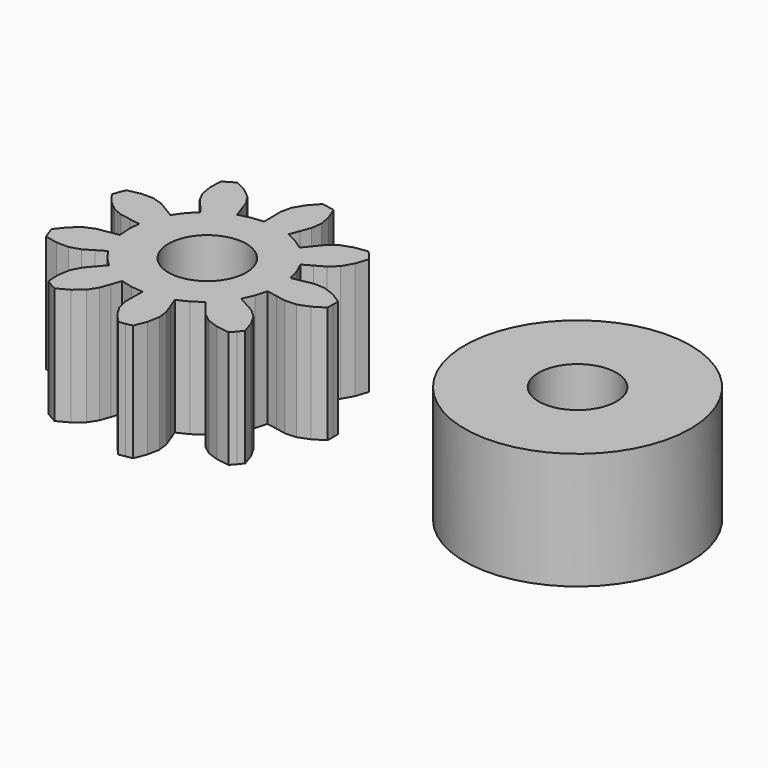
from build123d import *

# Parameters (mm, degrees)
F0_R     = 0.5
F1_DEPTH = 1.5
F2_R     = 1.45
F2_R_2   = 0.5
F3_DEPTH = 1.5


with BuildPart() as f1:
    # F0 (on Top) → F1 (new body)
    with BuildSketch(Plane.XY):
        Polygon((0.815294, -0.474861), (0.879947, -0.33347), (0.921305, -0.183599), (1.053889, -0.20902), (1.186474, -0.234441), (1.32482, -0.227775), (1.468747, -0.173784), (1.611558, -0.084957), (1.613747, 0), (1.611558, 0.084957), (1.468747, 0.173784), (1.32482, 0.227775), (1.186474, 0.234441), (1.053889, 0.20902), (0.921305, 0.183599), (0.879947, 0.33347), (0.815294, 0.474861), (0.9332, 0.540611), (1.051107, 0.606362), (1.1528, 0.700395), (1.22835, 0.834269), (1.280653, 0.994112), (1.22772, 1.0606), (1.171434, 1.124274), (1.004937, 1.100522), (0.859978, 1.049367), (0.749715, 0.965547), (0.664489, 0.860849), (0.579264, 0.756151), (0.451247, 0.844375), (0.310834, 0.911129), (0.358893, 1.037285), (0.406951, 1.163441), (0.42441, 1.300842), (0.396232, 1.451958), (0.333553, 1.608025), (0.250266, 1.624933), (0.16622, 1.63753), (0.053943, 1.512313), (-0.02422, 1.379948), (-0.054808, 1.244862), (-0.052796, 1.109877), (-0.050784, 0.974892), (-0.20556, 0.960188), (-0.356031, 0.921069), (-0.400308, 1.048601), (-0.444585, 1.176134), (-0.51953, 1.292611), (-0.638251, 1.39026), (-0.786584, 1.469525), (-0.861253, 1.428942), (-0.933734, 1.384568), (-0.939254, 1.216476), (-0.914048, 1.064836), (-0.850649, 0.941692), (-0.762341, 0.839581), (-0.674033, 0.73747), (-0.783146, 0.626718), (-0.873268, 0.50003), (-0.989163, 0.569265), (-1.105057, 0.6385), (-1.237339, 0.679553), (-1.391052, 0.678044), (-1.555632, 0.643418), (-1.586746, 0.564333), (-1.613746, 0.483751), (-1.509928, 0.351436), (-1.393147, 0.251475), (-1.265425, 0.197895), (-1.132141, 0.176436), (-0.998857, 0.154978), (-1.011253, 0), (-0.998857, -0.154978), (-1.132141, -0.176436), (-1.265425, -0.197895), (-1.393147, -0.251475), (-1.509928, -0.351436), (-1.613746, -0.483751), (-1.586746, -0.564333), (-1.555632, -0.643418), (-1.391052, -0.678044), (-1.237339, -0.679553), (-1.105057, -0.6385), (-0.989163, -0.569265), (-0.873268, -0.50003), (-0.783146, -0.626718), (-0.674033, -0.73747), (-0.762341, -0.839581), (-0.850649, -0.941692), (-0.914048, -1.064836), (-0.939254, -1.216476), (-0.933734, -1.384568), (-0.861253, -1.428942), (-0.786584, -1.469525), (-0.638251, -1.39026), (-0.51953, -1.292611), (-0.444585, -1.176134), (-0.400308, -1.048601), (-0.356031, -0.921069), (-0.20556, -0.960188), (-0.050784, -0.974892), (-0.052796, -1.109877), (-0.054808, -1.244862), (-0.02422, -1.379948), (0.053943, -1.512313), (0.16622, -1.63753), (0.250266, -1.624933), (0.333553, -1.608025), (0.396232, -1.451958), (0.42441, -1.300842), (0.406951, -1.163441), (0.358893, -1.037285), (0.310834, -0.911129), (0.451247, -0.844375), (0.579264, -0.756151), (0.664489, -0.860849), (0.749715, -0.965547), (0.859978, -1.049367), (1.004937, -1.100522), (1.171434, -1.124274), (1.22772, -1.0606), (1.280653, -0.994112), (1.22835, -0.834269), (1.1528, -0.700395), (1.051107, -0.606362), (0.9332, -0.540611), align=None)
        Circle(F0_R, mode=Mode.SUBTRACT)
    extrude(amount=F1_DEPTH)


with BuildPart() as f3:
    # F2 (on Top) → F3 (new body)
    with BuildSketch(Plane.XY):
        with Locations((4.647823, 0.132405)):
            Circle(F2_R)
        with Locations((4.647823, 0.132405)):
            Circle(F2_R_2, mode=Mode.SUBTRACT)
    extrude(amount=F3_DEPTH)


solid = Compound([f1.part, f3.part])
